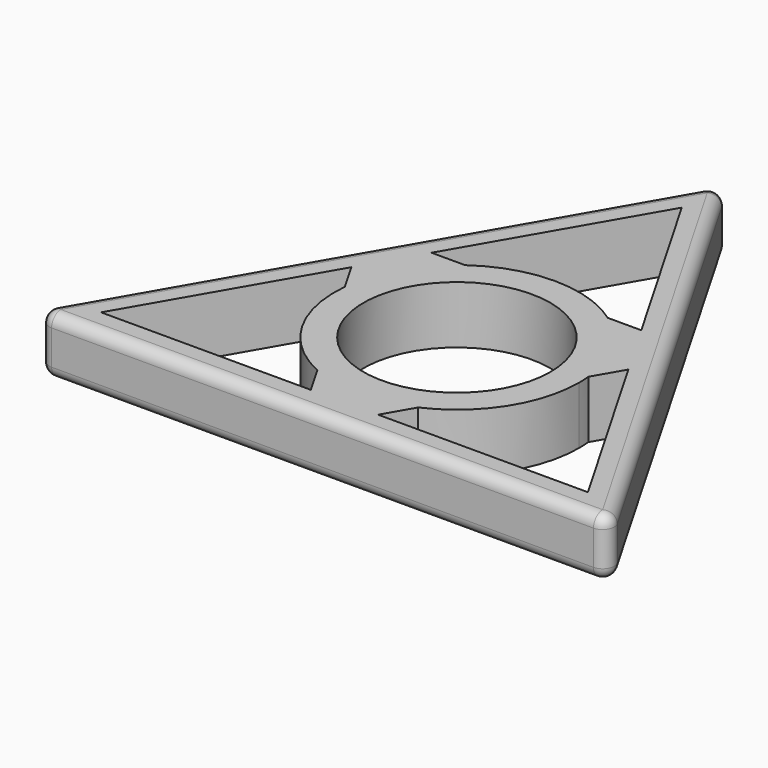
from build123d import *

# Parameters (mm, degrees)
F0_R     = 8.125
F1_DEPTH = 5
F2_R     = 1


with BuildPart() as f1:
    # F0 (on Top) → F1 (new body)
    with BuildSketch(Plane.XY):
        Polygon((0, 29.1730664034), (-25.2646166116, -14.5865332017), (25.2646166116, -14.5865332017), align=None)
        with BuildLine():
            Line((-6.1950291712, 8.6320471829), (-9.1102483662, 8.6320471829))
            Line((-9.1102483662, 8.6320471829), (0, 24.4114602227))
            Line((0, 24.4114602227), (9.1102483662, 8.6320471829))
            Line((9.1102483662, 8.6320471829), (6.1950291712, 8.6320471829))
            ThreePointArc((6.1950291712, 8.6320471829), (9.2015199152, 5.3125), (10.5730867327, 1.049029048))
            Line((10.5730867327, 1.049029048), (12.0306963301, 3.5736829284))
            Line((12.0306963301, 3.5736829284), (21.1409446963, -12.2057301113))
            Line((21.1409446963, -12.2057301113), (2.920447964, -12.2057301113))
            Line((2.920447964, -12.2057301113), (4.3780575614, -9.6810762309))
            ThreePointArc((4.3780575614, -9.6810762309), (0, -10.625), (-4.3780575614, -9.6810762309))
            Line((-4.3780575614, -9.6810762309), (-2.920447964, -12.2057301113))
            Line((-2.920447964, -12.2057301113), (-21.1409446963, -12.2057301113))
            Line((-21.1409446963, -12.2057301113), (-12.0306963301, 3.5736829284))
            Line((-12.0306963301, 3.5736829284), (-10.5730867327, 1.049029048))
            ThreePointArc((-10.5730867327, 1.049029048), (-9.2015199152, 5.3125), (-6.1950291712, 8.6320471829))
        make_face(mode=Mode.SUBTRACT)
        with BuildLine():
            Line((6.1950291712, 8.6320471829), (-6.1950291712, 8.6320471829))
            ThreePointArc((-6.1950291712, 8.6320471829), (-9.2015199152, 5.3125), (-10.5730867327, 1.049029048))
            Line((-10.5730867327, 1.049029048), (-4.3780575614, -9.6810762309))
            ThreePointArc((-4.3780575614, -9.6810762309), (0, -10.625), (4.3780575614, -9.6810762309))
            Line((4.3780575614, -9.6810762309), (10.5730867327, 1.049029048))
            ThreePointArc((10.5730867327, 1.049029048), (9.2015199152, 5.3125), (6.1950291712, 8.6320471829))
        make_face()
        Circle(F0_R, mode=Mode.SUBTRACT)
        with BuildLine():
            Line((-4.3780575614, -9.6810762309), (-10.5730867327, 1.049029048))
            ThreePointArc((-10.5730867327, 1.049029048), (-9.2015199152, -5.3125), (-4.3780575614, -9.6810762309))
        make_face()
        with BuildLine():
            ThreePointArc((10.625, 0), (10.612013747, 0.5251563888), (10.5730867327, 1.049029048))
            Line((10.5730867327, 1.049029048), (4.3780575614, -9.6810762309))
            ThreePointArc((4.3780575614, -9.6810762309), (8.9276952958, -5.7608056472), (10.625, 0))
        make_face()
        with BuildLine():
            ThreePointArc((6.1950291712, 8.6320471829), (0, 10.625), (-6.1950291712, 8.6320471829))
            Line((-6.1950291712, 8.6320471829), (6.1950291712, 8.6320471829))
        make_face()
    extrude(amount=F1_DEPTH)

    # F2
    f2_edges = [f1.edges().sort_by_distance(p)[0] for p in [
        (12.632308, 7.293267, 0),
        (-12.632308, 7.293267, 0),
        (0, -14.586533, 0),
        (-12.632308, 7.293267, 5),
        (12.632308, 7.293267, 5),
        (0, -14.586533, 5),
        (-25.264617, -14.586533, 2.5),
        (0, 29.173066, 2.5),
        (25.264617, -14.586533, 2.5),
    ]]
    fillet(f2_edges, radius=F2_R)


solid = f1.part
